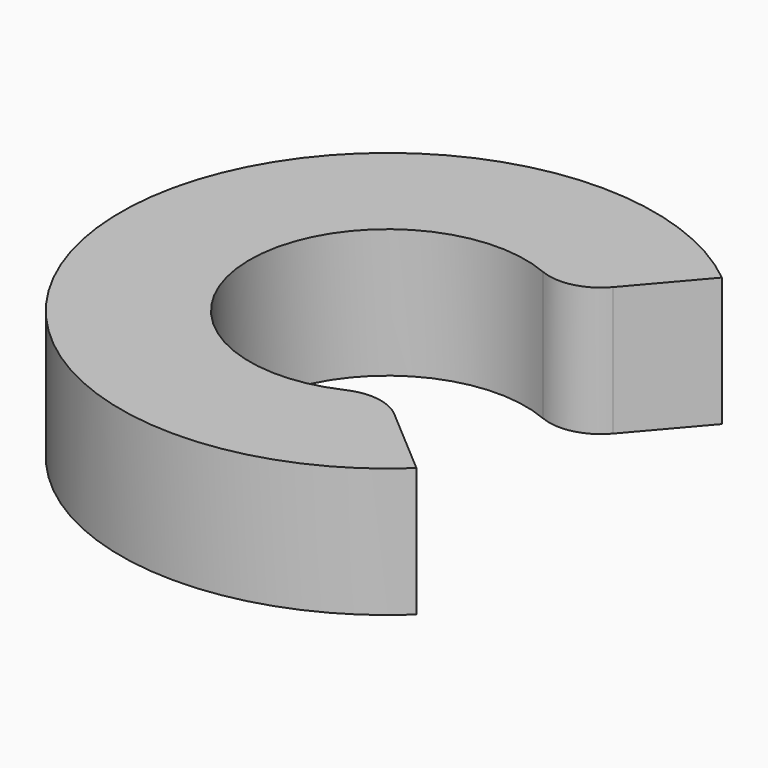
from build123d import *

# Parameters (mm, degrees)
F1_DEPTH = 12.7
F2_R     = 5.08


with BuildPart() as f1:
    # F0 (on Top) → F1 (new body)
    with BuildSketch(Plane.XY):
        with BuildLine():
            ThreePointArc((8.348858, -10.721823), (-13.589, 0), (8.348858, 10.721823))
            Line((8.348858, 10.721823), (16.617949, 20.370451))
            ThreePointArc((16.617949, 20.370451), (-26.270642, -0.982292), (18.092772, -19.072575))
            Line((18.092772, -19.072575), (8.348858, -10.721823))
        make_face()
    extrude(amount=F1_DEPTH)

    # F2
    f2_edges = [f1.edges().sort_by_distance(p)[0] for p in [
        (8.348858, 10.721823, 6.35),
        (8.348858, -10.721823, 6.35),
    ]]
    fillet(f2_edges, radius=F2_R)


solid = f1.part
